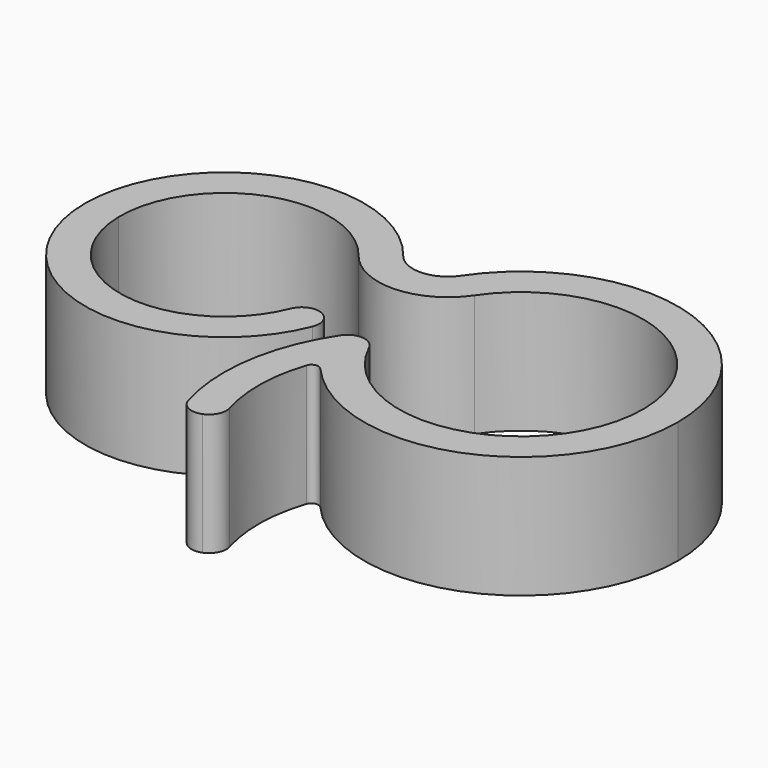
from build123d import *

# Parameters (mm, degrees)
F1_DEPTH = 3.5


with BuildPart() as f1:
    # F0 (on Top) → F1 (new body)
    with BuildSketch(Plane.XY):
        with BuildLine():
            ThreePointArc((-3.729947, 2.517439), (-4.52425, 2.077468), (-5.347059, 2.461496))
            ThreePointArc((-5.347059, 2.461496), (-9.812645, 3.778487), (-12.499931, -0.023411))
            ThreePointArc((-12.499931, -0.023411), (-9.244431, -3.930117), (-4.785714, -1.484615))
            ThreePointArc((-4.785714, -1.484615), (-4.774576, -1.144209), (-4.984035, -0.875644))
            ThreePointArc((-4.984035, -0.875644), (-5.404829, -0.823614), (-5.714286, -1.113461))
            ThreePointArc((-5.714286, -1.113461), (-9.03795, -2.951374), (-11.49942, -0.058999))
            ThreePointArc((-11.49942, -0.058999), (-9.504036, 2.826997), (-6.135294, 1.846122))
            ThreePointArc((-6.135294, 1.846122), (-4.489676, 1.078066), (-2.90107, 1.958008))
            ThreePointArc((-2.90107, 1.958008), (1.001067, 3.353784), (3.499678, 0.047456))
            ThreePointArc((3.499678, 0.047456), (0.787879, -3.410168), (-3.165812, -1.492527))
            ThreePointArc((-3.165812, -1.492527), (-3.582024, -1.207046), (-4.034966, -1.429704))
            ThreePointArc((-4.034966, -1.429704), (-4.888074, -3.648968), (-4.724786, -6.020942))
            ThreePointArc((-4.724786, -6.020942), (-4.462085, -6.330099), (-4.056583, -6.342665))
            ThreePointArc((-4.056583, -6.342665), (-3.794678, -6.096503), (-3.765574, -5.738253))
            ThreePointArc((-3.765574, -5.738253), (-3.948415, -4.386443), (-3.717805, -3.041958))
            ThreePointArc((-3.717805, -3.041958), (-3.567792, -2.909236), (-3.377955, -2.973117))
            ThreePointArc((-3.377955, -2.973117), (1.588529, -4.210294), (4.5, -0.000792))
            ThreePointArc((4.5, -0.000792), (1.316669, 4.303067), (-3.729947, 2.517439))
        make_face()
    extrude(amount=F1_DEPTH)


solid = f1.part
